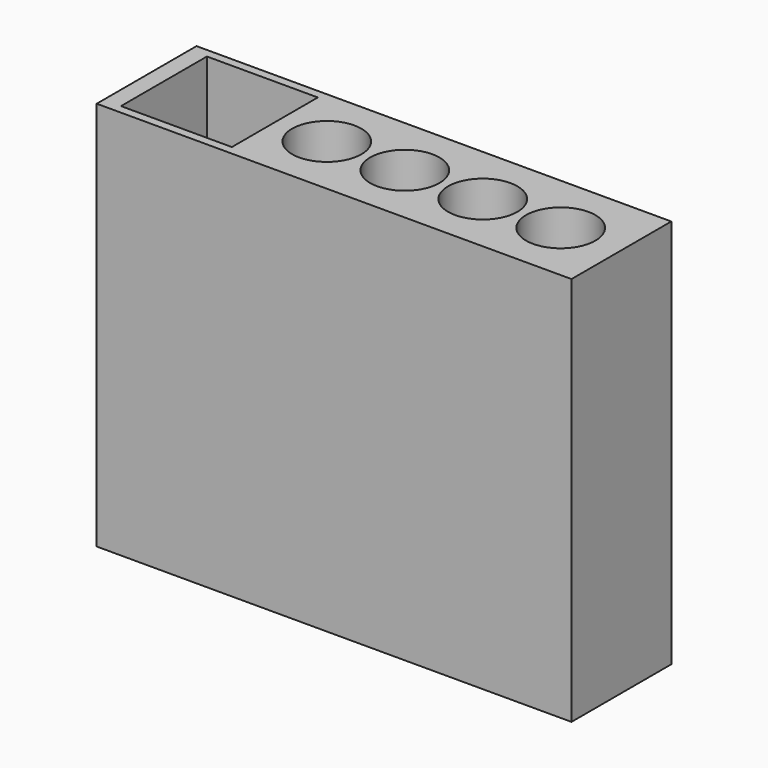
from build123d import *

# Parameters (mm, degrees)
F0_W     = 54.8
F0_H     = 14.4
F0_W_2   = 12.8
F0_H_2   = 12.4
F0_R     = 4
F1_DEPTH = 45


with BuildPart() as f1:
    # F0 (on Top) → F1 (new body)
    with BuildSketch(Plane.XY):
        with Locations((-20.4, 0)):
            Rectangle(F0_W, F0_H)
        with Locations((-39.4, 0)):
            Rectangle(F0_W_2, F0_H_2, mode=Mode.SUBTRACT)
        with Locations((-27, 0)):
            Circle(F0_R, mode=Mode.SUBTRACT)
        with Locations((-18, 0)):
            Circle(F0_R, mode=Mode.SUBTRACT)
        with Locations((-9, 0)):
            Circle(F0_R, mode=Mode.SUBTRACT)
        Circle(F0_R, mode=Mode.SUBTRACT)
    extrude(amount=F1_DEPTH)


solid = f1.part
